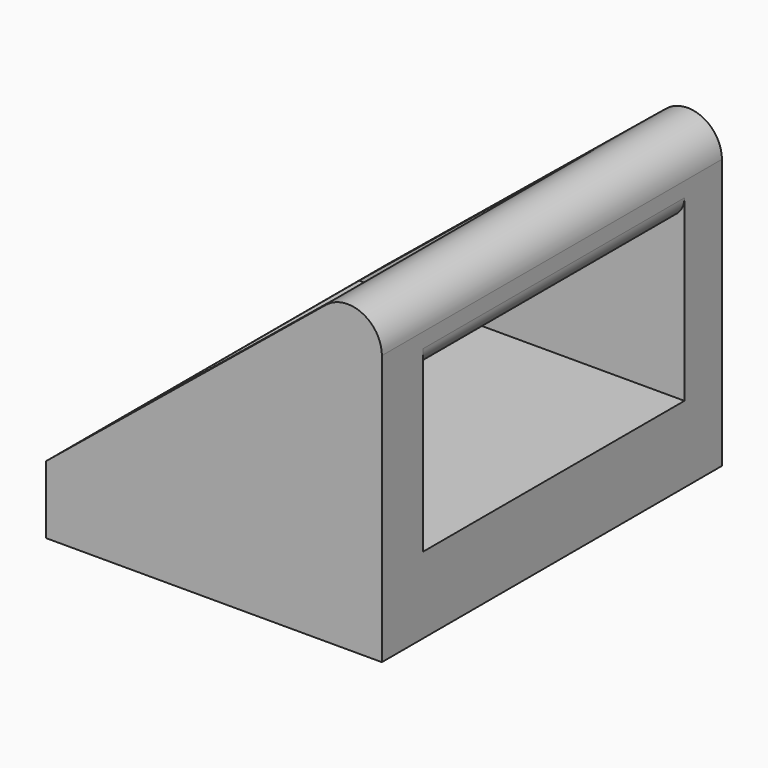
from build123d import *

# Parameters (mm, degrees)
F1_DEPTH = 20
F2_DEPTH = 20
F3_W     = 15.387754
F3_H     = 7.40892
F4_DEPTH = 50
F5_R     = 1
F6_R     = 1


with BuildPart() as f1:
    # F0 (on Front) → F1 (new body)
    with BuildSketch(Plane.XZ):
        with BuildLine():
            ThreePointArc((35.22866, 13.946989), (35.556946, 11.245402), (37.857051, 12.7))
            ThreePointArc((37.857051, 12.7), (36.937157, 14.154598), (35.22866, 13.946989))
        make_face()
    extrude(amount=F1_DEPTH)

    # F0 (on Front) → F2 (join)
    with BuildSketch(Plane.XZ):
        with BuildLine():
            Line((22.057051, 3.19), (22.057051, 0))
            Line((22.057051, 0), (37.857051, 0))
            Line((37.857051, 0), (37.857051, 12.7))
            ThreePointArc((37.857051, 12.7), (35.556946, 11.245402), (35.22866, 13.946989))
            Line((35.22866, 13.946989), (22.057051, 3.19))
        make_face()
        with BuildLine():
            ThreePointArc((35.22866, 13.946989), (35.556946, 11.245402), (37.857051, 12.7))
            ThreePointArc((37.857051, 12.7), (36.937157, 14.154598), (35.22866, 13.946989))
        make_face()
    extrude(amount=F2_DEPTH)

    # F3 (on Right) → F4 (cut)
    with BuildSketch(Plane.YZ):
        with Locations((-9.89757, 7.296514)):
            Rectangle(F3_W, F3_H)
    extrude(amount=F4_DEPTH, mode=Mode.SUBTRACT)

    # F5
    f5_edges = [f1.edges().sort_by_distance(p)[0] for p in [
        (31.621354, -9.89757, 11.000974),
    ]]
    fillet(f5_edges, radius=F5_R)

    # F6
    f6_edges = [f1.edges().sort_by_distance(p)[0] for p in [
        (37.857051, -9.89757, 11.000974),
    ]]
    fillet(f6_edges, radius=F6_R)


solid = f1.part
